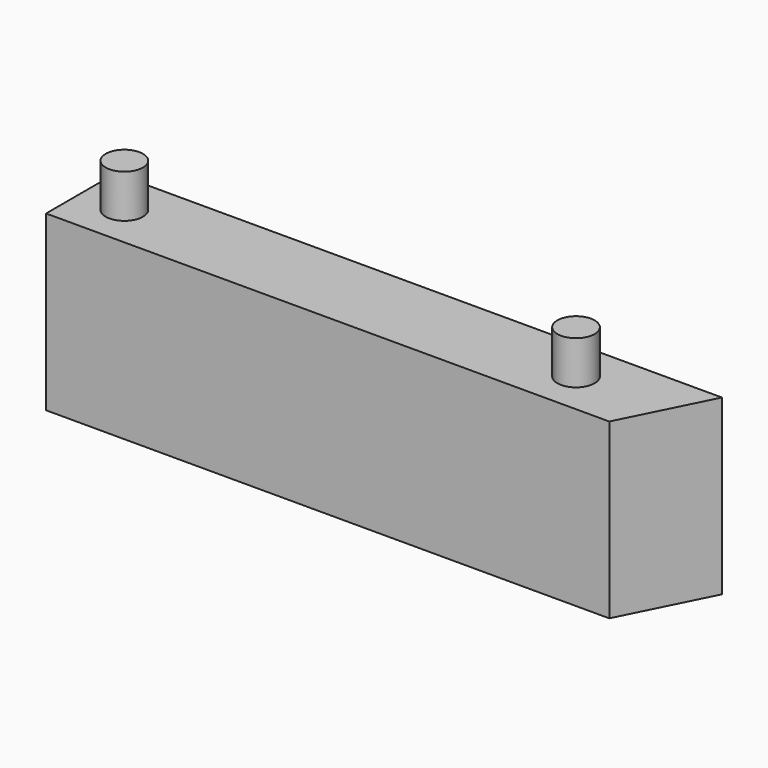
from build123d import *

# Parameters (mm, degrees)
F1_DEPTH = 20
F2_R     = 2.15
F3_DEPTH = 5


with BuildPart() as f1:
    # F0 (on Top) → F1 (new body)
    with BuildSketch(Plane.XY):
        Polygon((42.720473, 33.887387), (-27.279527, 33.887387), (-27.279527, 23.887387), (37.720473, 23.887387), align=None)
    extrude(amount=F1_DEPTH)

    # F2 (on face) → F3 (join)
    with BuildSketch(Plane.XY.offset(20)):
        with Locations((-22.207731, 28.838353)):
            Circle(F2_R)
        with Locations((29.88103, 28.887387)):
            Circle(F2_R)
    extrude(amount=F3_DEPTH)


solid = f1.part
